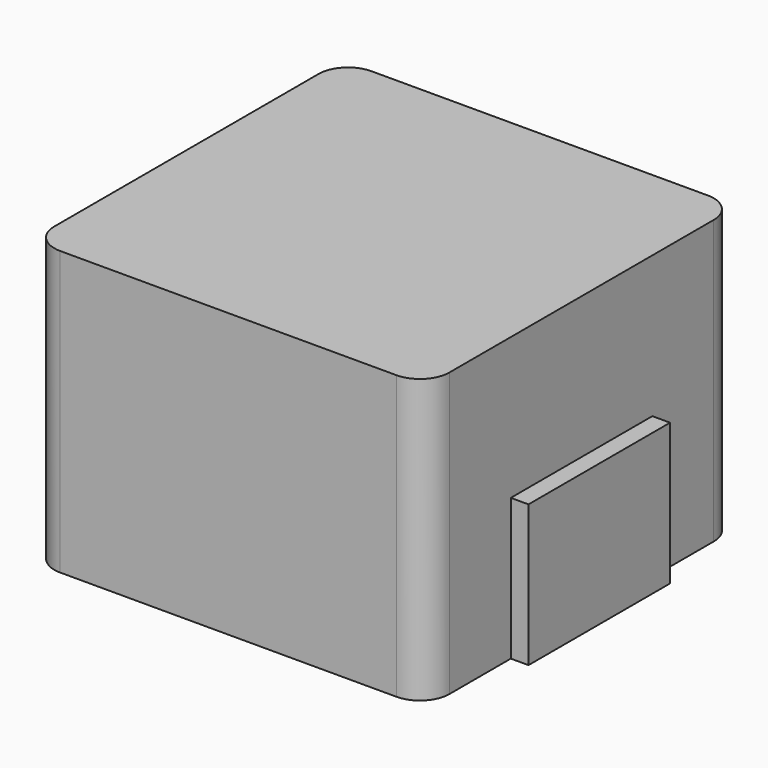
from build123d import *

# Parameters (mm, degrees)
F0_W     = 1.8
F0_H     = 3
F1_DEPTH = 2.4
F3_DEPTH = 4.8


with BuildPart() as f1:
    # F0 (on Top) → F1 (new body)
    with BuildSketch(Plane.XY):
        with Locations((-2.75, 0)):
            Rectangle(F0_W, F0_H)
        with Locations((2.75, 0)):
            Rectangle(F0_W, F0_H)
    extrude(amount=F1_DEPTH)


with BuildPart() as f3:
    # F2 (on Top) → F3 (new body)
    with BuildSketch(Plane.XY):
        with BuildLine():
            Line((2.85, 3.3), (-2.85, 3.3))
            ThreePointArc((-2.85, 3.3), (-3.203553, 3.153553), (-3.35, 2.8))
            Line((-3.35, 2.8), (-3.35, -2.8))
            ThreePointArc((-3.35, -2.8), (-3.203553, -3.153553), (-2.85, -3.3))
            Line((-2.85, -3.3), (2.85, -3.3))
            ThreePointArc((2.85, -3.3), (3.203553, -3.153553), (3.35, -2.8))
            Line((3.35, -2.8), (3.35, 2.8))
            ThreePointArc((3.35, 2.8), (3.203553, 3.153553), (2.85, 3.3))
        make_face()
    extrude(amount=F3_DEPTH)


solid = Compound([f1.part, f3.part])
